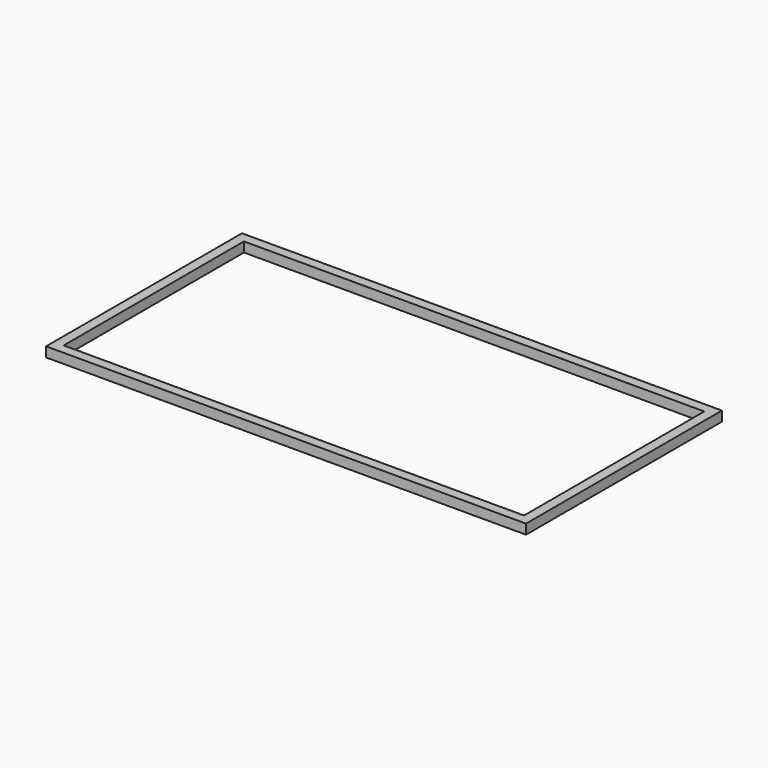
from build123d import *

# Parameters (mm, degrees)
F1_W = 50.8
F1_H = 50.8


with BuildPart() as f2:
    # F2: sweep along a path in F0
    with BuildLine(Plane.XY) as f2_path:
        Line((-1219.2, 609.6), (-1219.2, -609.6))
        Line((-1219.2, -609.6), (1219.2, -609.6))
        Line((1219.2, -609.6), (1219.2, 609.6))
        Line((1219.2, 609.6), (-1219.2, 609.6))
    # F1 (on Front) → F2 (sweep)
    with BuildSketch(Plane.XZ):
        with Locations((-1219.2, 0)):
            Rectangle(F1_W, F1_H)
    sweep(path=f2_path.line, transition=Transition.RIGHT)


solid = f2.part
